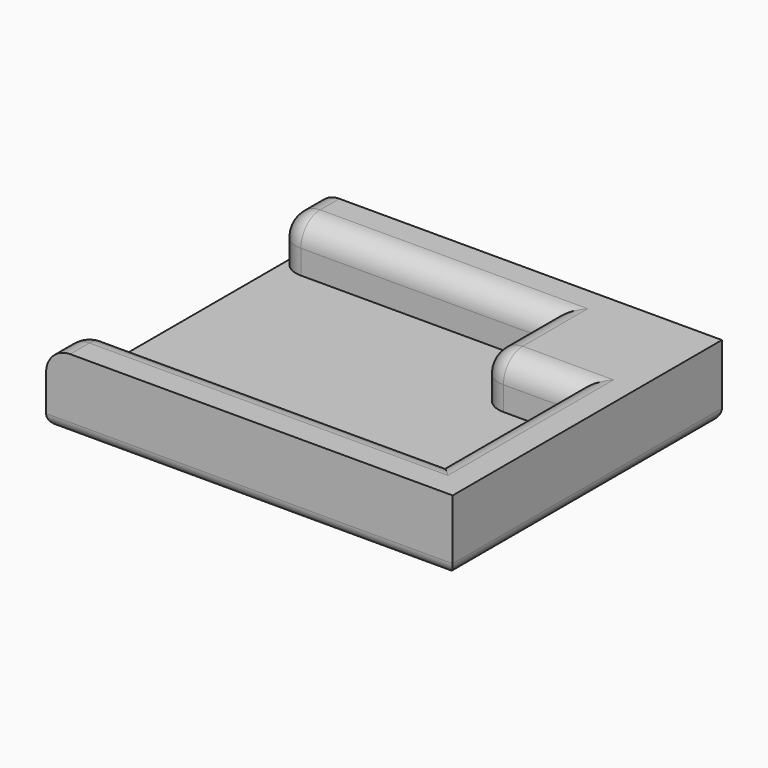
from build123d import *

# Parameters (mm, degrees)
F1_DEPTH = 3.175
F2_DEPTH = 6.35
F3_R     = 3.175
F4_R     = 3.175
F5_R     = 1.5875


with BuildPart() as f1:
    # F0 (on Top) → F1 (new body)
    with BuildSketch(Plane.XY):
        Polygon((8.5, 10.5), (20.5, 10.5), (20.5, -10.5), (-20.5, -10.5), (-26.85, -10.5), (-26.85, -16.85), (26.85, -16.85), (26.85, 27.6), (-26.85, 27.6), (-26.85, 21.25), (-20.5, 21.25), (8.5, 21.25), align=None)
        Polygon((20.5, -10.5), (20.5, 10.5), (8.5, 10.5), (8.5, 21.25), (-20.5, 21.25), (-20.5, 10.5), (-20.5, -10.5), align=None)
        Polygon((-26.85, -10.5), (-20.5, -10.5), (-20.5, 10.5), (-20.5, 21.25), (-26.85, 21.25), align=None)
    extrude(amount=-F1_DEPTH)

    # F0 (on Top) → F2 (join)
    with BuildSketch(Plane.XY):
        Polygon((8.5, 10.5), (20.5, 10.5), (20.5, -10.5), (-20.5, -10.5), (-26.85, -10.5), (-26.85, -16.85), (26.85, -16.85), (26.85, 27.6), (-26.85, 27.6), (-26.85, 21.25), (-20.5, 21.25), (8.5, 21.25), align=None)
    extrude(amount=F2_DEPTH)

    # F3
    f3_edges = [f1.edges().sort_by_distance(p)[0] for p in [
        (8.5, 10.5, 3.175),
        (-26.85, -10.5, 3.175),
        (-26.85, 21.25, 3.175),
    ]]
    fillet(f3_edges, radius=F3_R)

    # F4
    f4_edges = [f1.edges().sort_by_distance(p)[0] for p in [
        (9.429936, 11.429936, 6.35),
        (20.5, 0, 6.35),
        (-1.5875, -10.5, 6.35),
        (-7.5875, 21.25, 6.35),
    ]]
    fillet(f4_edges, radius=F4_R)

    # F5
    f5_edges = [f1.edges().sort_by_distance(p)[0] for p in [
        (0, -16.85, -3.175),
        (26.85, 5.375, -3.175),
        (0, 27.6, -3.175),
        (-26.85, 5.375, -3.175),
    ]]
    fillet(f5_edges, radius=F5_R)


solid = f1.part
